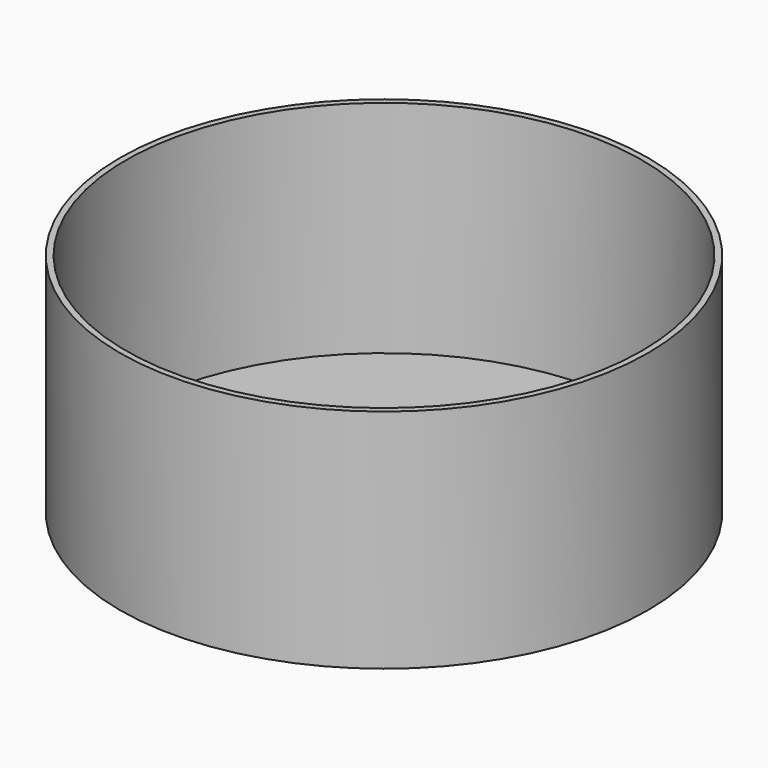
from build123d import *

# Parameters (mm, degrees)
F0_R     = 43.75
F1_DEPTH = 37.5
F2_T     = -1
F3_R     = 7.5
F4_DEPTH = 25.4


with BuildPart() as f1:
    # F0 (on Top) → F1 (new body)
    with BuildSketch(Plane.XY):
        Circle(F0_R)
    extrude(amount=F1_DEPTH)

    # F2
    f2_openings = [f1.faces().sort_by_distance(p)[0] for p in [
        (0, 0, 37.5),
    ]]
    offset(amount=F2_T, openings=f2_openings)

    # F3 (on face) → F4 (cut)
    with BuildSketch(Plane(origin=(0, 0, 0), x_dir=(1, 0, 0), z_dir=(0, 0, -1))):
        Circle(F3_R)
    extrude(amount=-F4_DEPTH, mode=Mode.SUBTRACT)


solid = f1.part
